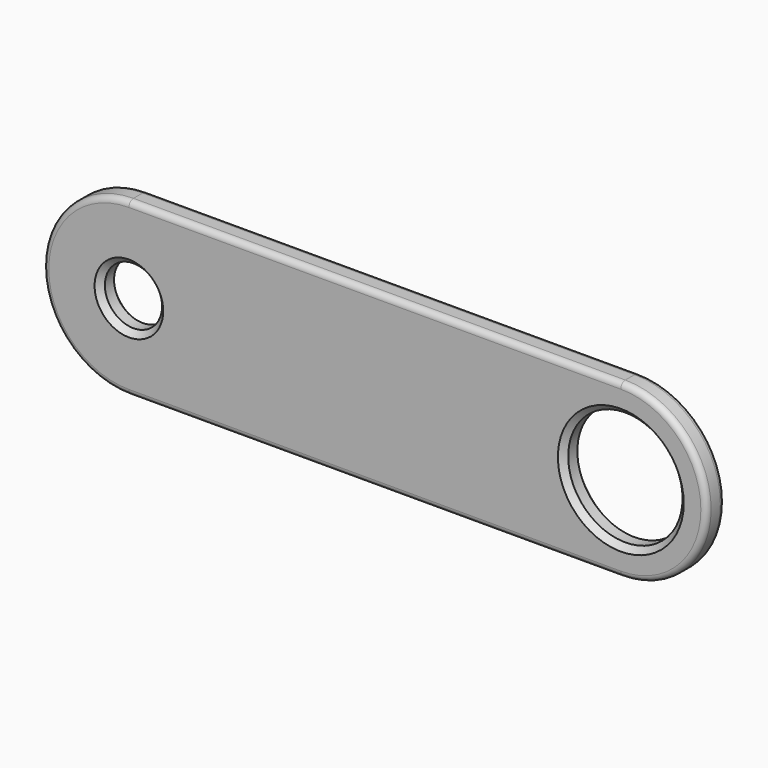
from build123d import *

# Parameters (mm, degrees)
F0_R     = 2.5
F0_R_2   = 5
F1_DEPTH = 2
F2_R     = 0.5
F3_SIZE  = 0.5


with BuildPart() as f1:
    # F0 (on Front) → F1 (new body)
    with BuildSketch(Plane.XZ):
        with BuildLine():
            Line((10.978817, 8.515241), (-32.021183, 8.515241))
            ThreePointArc((-32.021183, 8.515241), (-39.521183, 1.015241), (-32.021183, -6.484759))
            Line((-32.021183, -6.484759), (10.978817, -6.484759))
            ThreePointArc((10.978817, -6.484759), (18.478817, 1.015241), (10.978817, 8.515241))
        make_face()
        with Locations((-32.021183, 1.015241)):
            Circle(F0_R, mode=Mode.SUBTRACT)
        with Locations((10.978817, 1.015241)):
            Circle(F0_R_2, mode=Mode.SUBTRACT)
    extrude(amount=F1_DEPTH)

    # F2
    f2_edges = [f1.edges().sort_by_distance(p)[0] for p in [
        (-10.521183, -2, 8.515241),
        (-39.521183, 0, 1.015241),
    ]]
    fillet(f2_edges, radius=F2_R)

    # F3
    f3_edges = [f1.edges().sort_by_distance(p)[0] for p in [
        (-34.521183, -2, 1.015241),
        (5.978817, -2, 1.015241),
        (-34.521183, 0, 1.015241),
        (5.978817, 0, 1.015241),
    ]]
    chamfer(f3_edges, length=F3_SIZE)


solid = f1.part
